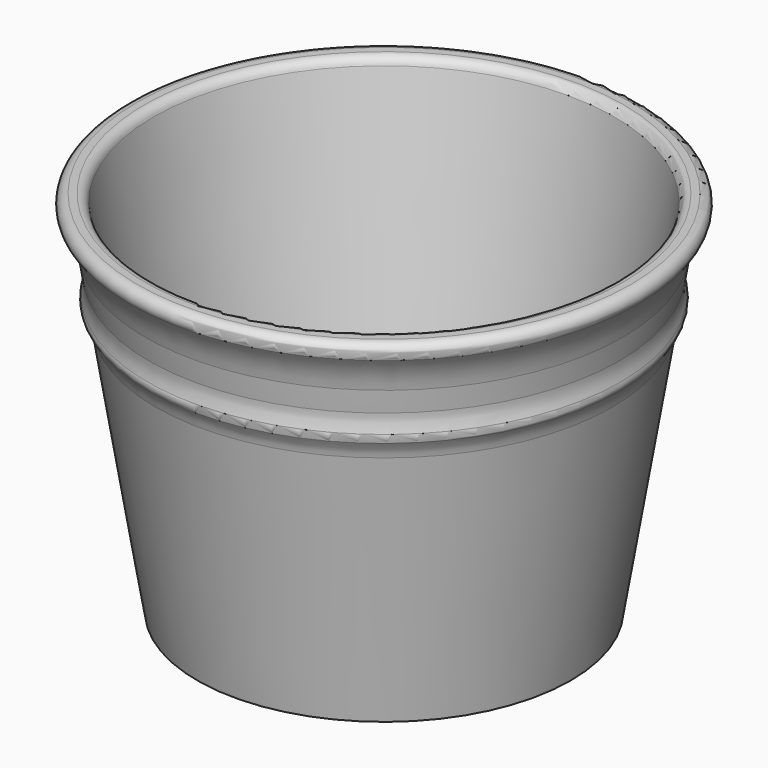
from build123d import *

# Parameters (mm, degrees)
F2_R = 10
F3_R = 2.5


with BuildPart() as f1:
    # F0 (on Front) → F1 (revolve)
    with BuildSketch(Plane.XZ):
        with BuildLine():
            Line((67.052818, 100), (63, 100))
            Line((63, 100), (47.347826, 4))
            Line((47.347826, 4), (0, 4))
            Line((0, 4), (0, 0))
            Line((0, 0), (50.74847, 0))
            Line((50.74847, 0), (61.995092, 68.979285))
            ThreePointArc((61.995092, 68.979285), (62.689931, 71.34783), (63.943775, 73.47402))
            ThreePointArc((63.943775, 73.47402), (64.430945, 74.597703), (64.325935, 75.817938))
            ThreePointArc((64.325935, 75.817938), (63.812397, 78.232288), (63.905895, 80.698877))
            Line((63.905895, 80.698877), (64.877049, 86.655283))
            ThreePointArc((64.877049, 86.655283), (66.341543, 91.562766), (69.004327, 95.937434))
            ThreePointArc((69.004327, 95.937434), (69.306305, 98.582494), (67.052818, 100))
        make_face()
    revolve(axis=Axis((0, 0, 51), (0, 0, 1)))

    # F2
    f2_edges = [f1.edges().sort_by_distance(p)[0] for p in [
        (-47.347826, 0, 4),
    ]]
    fillet(f2_edges, radius=F2_R)

    # F3
    f3_edges = [f1.edges().sort_by_distance(p)[0] for p in [
        (-63, 0, 100),
    ]]
    fillet(f3_edges, radius=F3_R)


solid = f1.part
